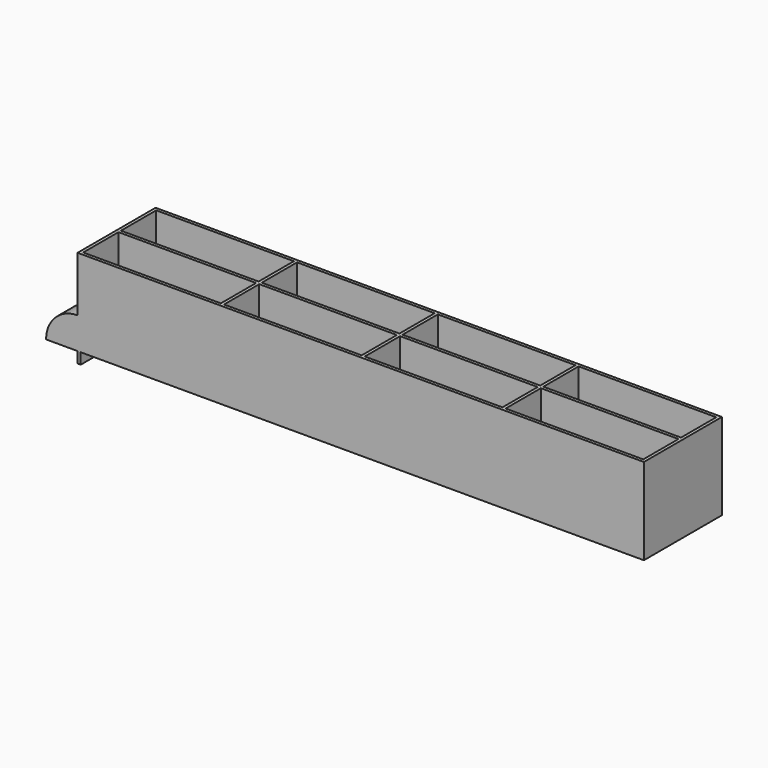
from build123d import *

# Parameters (mm, degrees)
PAD002_DEPTH                    = 62
SKETCH004_W                     = 87.5
SKETCH004_H                     = 28
POCKET001_DEPTH                 = 53
PAD_DEPTH                       = 87.5
SKETCH004_LINEARPATTERN_2_W     = 87.5
SKETCH004_LINEARPATTERN_2_H     = 28
POCKET001_LINEARPATTERN_2_DEPTH = 53
PAD_LINEARPATTERN_2_DEPTH       = 87.5
SKETCH004_LINEARPATTERN_3_W     = 87.5
SKETCH004_LINEARPATTERN_3_H     = 28
POCKET001_LINEARPATTERN_3_DEPTH = 53
PAD_LINEARPATTERN_3_DEPTH       = 87.5
SKETCH004_LINEARPATTERN_4_W     = 87.5
SKETCH004_LINEARPATTERN_4_H     = 28
POCKET001_LINEARPATTERN_4_DEPTH = 53
PAD_LINEARPATTERN_4_DEPTH       = 87.5
LINEARPATTERN001_COUNT          = 2
LINEARPATTERN001_PITCH          = 30
REVOLUTION_ANGLE                = -90


with BuildPart() as part:
    # Sketch006 → Pad002 (new body)
    with BuildSketch(Plane.XZ):
        Polygon((0, 55), (360, 55), (360, 0), (2, 0), (2, -7), (0, -7), align=None)
    extrude(amount=-PAD002_DEPTH)

    # Sketch004 (on DatumPlane) → Pocket001 (cut)
    with BuildSketch(Plane.XY.offset(55)):
        with Locations((45.75, 16)):
            Rectangle(SKETCH004_W, SKETCH004_H)
    pocket001 = extrude(amount=-POCKET001_DEPTH, mode=Mode.SUBTRACT)

    # Sketch (on DatumPlane) → Pad (join)
    with BuildSketch(Plane.YZ.offset(2)):
        with BuildLine():
            ThreePointArc((2, 11.333333), (4.73367, 4.73367), (11.333333, 2))
            Line((2, 2), (11.333333, 2))
            Line((2, 11.333333), (2, 2))
        make_face()
        with BuildLine():
            ThreePointArc((20.666667, 2), (27.26633, 4.73367), (30, 11.333333))
            Line((30, 2), (30, 11.333333))
            Line((20.666667, 2), (30, 2))
        make_face()
    pad = extrude(amount=PAD_DEPTH)

    # Sketch004 LinearPattern 2 → Pocket001 LinearPattern 2 (cut)
    with BuildSketch(Plane(origin=(89.5, 0, 55), x_dir=(1, 0, 0), z_dir=(0, 0, 1))):
        with Locations((45.75, 16)):
            Rectangle(SKETCH004_LINEARPATTERN_2_W, SKETCH004_LINEARPATTERN_2_H)
    pocket001_linearpattern_2 = extrude(amount=-POCKET001_LINEARPATTERN_2_DEPTH, mode=Mode.SUBTRACT)

    # Sketch LinearPattern 2 → Pad LinearPattern 2 (add)
    with BuildSketch(Plane.YZ.offset(91.5)):
        with BuildLine():
            ThreePointArc((2, 11.333333), (4.73367, 4.73367), (11.333333, 2))
            Line((2, 2), (11.333333, 2))
            Line((2, 11.333333), (2, 2))
        make_face()
        with BuildLine():
            ThreePointArc((20.666667, 2), (27.26633, 4.73367), (30, 11.333333))
            Line((30, 2), (30, 11.333333))
            Line((20.666667, 2), (30, 2))
        make_face()
    pad_linearpattern_2 = extrude(amount=PAD_LINEARPATTERN_2_DEPTH)

    # Sketch004 LinearPattern 3 → Pocket001 LinearPattern 3 (cut)
    with BuildSketch(Plane(origin=(179, 0, 55), x_dir=(1, 0, 0), z_dir=(0, 0, 1))):
        with Locations((45.75, 16)):
            Rectangle(SKETCH004_LINEARPATTERN_3_W, SKETCH004_LINEARPATTERN_3_H)
    pocket001_linearpattern_3 = extrude(amount=-POCKET001_LINEARPATTERN_3_DEPTH, mode=Mode.SUBTRACT)

    # Sketch LinearPattern 3 → Pad LinearPattern 3 (add)
    with BuildSketch(Plane.YZ.offset(181)):
        with BuildLine():
            ThreePointArc((2, 11.333333), (4.73367, 4.73367), (11.333333, 2))
            Line((2, 2), (11.333333, 2))
            Line((2, 11.333333), (2, 2))
        make_face()
        with BuildLine():
            ThreePointArc((20.666667, 2), (27.26633, 4.73367), (30, 11.333333))
            Line((30, 2), (30, 11.333333))
            Line((20.666667, 2), (30, 2))
        make_face()
    pad_linearpattern_3 = extrude(amount=PAD_LINEARPATTERN_3_DEPTH)

    # Sketch004 LinearPattern 4 → Pocket001 LinearPattern 4 (cut)
    with BuildSketch(Plane(origin=(268.5, 0, 55), x_dir=(1, 0, 0), z_dir=(0, 0, 1))):
        with Locations((45.75, 16)):
            Rectangle(SKETCH004_LINEARPATTERN_4_W, SKETCH004_LINEARPATTERN_4_H)
    pocket001_linearpattern_4 = extrude(amount=-POCKET001_LINEARPATTERN_4_DEPTH, mode=Mode.SUBTRACT)

    # Sketch LinearPattern 4 → Pad LinearPattern 4 (add)
    with BuildSketch(Plane.YZ.offset(270.5)):
        with BuildLine():
            ThreePointArc((2, 11.333333), (4.73367, 4.73367), (11.333333, 2))
            Line((2, 2), (11.333333, 2))
            Line((2, 11.333333), (2, 2))
        make_face()
        with BuildLine():
            ThreePointArc((20.666667, 2), (27.26633, 4.73367), (30, 11.333333))
            Line((30, 2), (30, 11.333333))
            Line((20.666667, 2), (30, 2))
        make_face()
    pad_linearpattern_4 = extrude(amount=PAD_LINEARPATTERN_4_DEPTH)

    # LinearPattern001: Pocket001, Pad, Pocket001 LinearPattern 2, Pad LinearPattern 2, Pocket001 LinearPattern 3, Pad LinearPattern 3, Pocket001 LinearPattern 4, Pad LinearPattern 4 ×2
    with Locations(*[(0, i * LINEARPATTERN001_PITCH, 0) for i in range(1, LINEARPATTERN001_COUNT)]):
        add(pocket001, mode=Mode.SUBTRACT)
        add(pad)
        add(pocket001_linearpattern_2, mode=Mode.SUBTRACT)
        add(pad_linearpattern_2)
        add(pocket001_linearpattern_3, mode=Mode.SUBTRACT)
        add(pad_linearpattern_3)
        add(pocket001_linearpattern_4, mode=Mode.SUBTRACT)
        add(pad_linearpattern_4)

    # Sketch007 → Revolution (revolve)
    with BuildSketch(Plane.YZ):
        Polygon((0, 0), (0, 20), (62, 20), (62, 0), (60, 0), (60, 18), (2, 18), (2, 0), align=None)
    revolve(axis=Axis((0, 0, 0), (0, 1, 0)), revolution_arc=REVOLUTION_ANGLE)


solid = part.part
